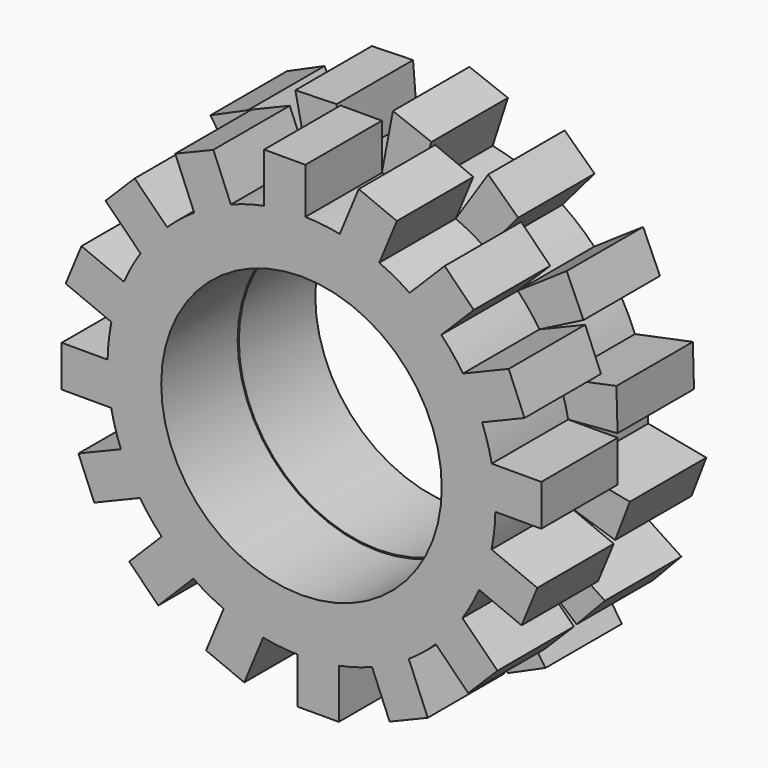
from build123d import *

# Parameters (mm, degrees)
F0_R     = 4.25
F1_DEPTH = 2.895
F2_DEPTH = 2.895
F3_DEPTH = 2.895
F4_R     = 4.213856
F5_DEPTH = 2.895


with BuildPart() as f1:
    # F0 (on Front) → F1 (new body)
    with BuildSketch(Plane.XZ):
        with BuildLine():
            ThreePointArc((5.873803, -0.118588), (5.874701, -0.059297), (5.875, 0))
            ThreePointArc((5.875, 0), (5.847442, 0.568372), (5.765027, 1.131412))
            ThreePointArc((5.765027, 1.131412), (5.641055, 1.641378), (5.472068, 2.138246))
            ThreePointArc((5.472068, 2.138246), (5.212447, 2.710355), (4.893218, 3.251468))
            ThreePointArc((4.893218, 3.251468), (4.583527, 3.675174), (4.237261, 4.069551))
            ThreePointArc((4.237261, 4.069551), (3.778465, 4.498758), (3.276461, 4.876518))
            ThreePointArc((3.276461, 4.876518), (2.828199, 5.149458), (2.357368, 5.381305))
            ThreePointArc((2.357368, 5.381305), (1.769247, 5.602267), (1.160892, 5.759163))
            ThreePointArc((1.160892, 5.759163), (0.642303, 5.839784), (0.118588, 5.873803))
            ThreePointArc((0.118588, 5.873803), (-0.509324, 5.852881), (-1.131412, 5.765027))
            ThreePointArc((-1.131412, 5.765027), (-1.641378, 5.641055), (-2.138246, 5.472068))
            ThreePointArc((-2.138246, 5.472068), (-2.710355, 5.212447), (-3.251468, 4.893218))
            ThreePointArc((-3.251468, 4.893218), (-3.675174, 4.583527), (-4.069551, 4.237261))
            ThreePointArc((-4.069551, 4.237261), (-4.498758, 3.778465), (-4.876518, 3.276461))
            ThreePointArc((-4.876518, 3.276461), (-5.149458, 2.828199), (-5.381305, 2.357368))
            ThreePointArc((-5.381305, 2.357368), (-5.602267, 1.769247), (-5.759163, 1.160892))
            ThreePointArc((-5.759163, 1.160892), (-5.839784, 0.642303), (-5.873803, 0.118588))
            ThreePointArc((-5.873803, 0.118588), (-5.852881, -0.509324), (-5.765027, -1.131412))
            ThreePointArc((-5.765027, -1.131412), (-5.641055, -1.641378), (-5.472068, -2.138246))
            ThreePointArc((-5.472068, -2.138246), (-5.212447, -2.710355), (-4.893218, -3.251468))
            ThreePointArc((-4.893218, -3.251468), (-4.583527, -3.675174), (-4.237261, -4.069551))
            ThreePointArc((-4.237261, -4.069551), (-3.778465, -4.498758), (-3.276461, -4.876518))
            ThreePointArc((-3.276461, -4.876518), (-2.828199, -5.149458), (-2.357368, -5.381305))
            ThreePointArc((-2.357368, -5.381305), (-1.769247, -5.602267), (-1.160892, -5.759163))
            ThreePointArc((-1.160892, -5.759163), (-0.642303, -5.839784), (-0.118588, -5.873803))
            ThreePointArc((-0.118588, -5.873803), (0.509324, -5.852881), (1.131412, -5.765027))
            ThreePointArc((1.131412, -5.765027), (1.641378, -5.641055), (2.138246, -5.472068))
            ThreePointArc((2.138246, -5.472068), (2.710355, -5.212447), (3.251468, -4.893218))
            ThreePointArc((3.251468, -4.893218), (3.675174, -4.583527), (4.069551, -4.237261))
            ThreePointArc((4.069551, -4.237261), (4.498758, -3.778465), (4.876518, -3.276461))
            ThreePointArc((4.876518, -3.276461), (5.149458, -2.828199), (5.381305, -2.357368))
            ThreePointArc((5.381305, -2.357368), (5.602267, -1.769247), (5.759163, -1.160892))
            ThreePointArc((5.759163, -1.160892), (5.839784, -0.642303), (5.873803, -0.118588))
        make_face()
        Circle(F0_R, mode=Mode.SUBTRACT)
        with BuildLine():
            ThreePointArc((5.765027, 1.131412), (5.847442, 0.568372), (5.875, 0))
            ThreePointArc((5.875, 0), (5.874701, -0.059297), (5.873803, -0.118588))
            Line((5.873803, -0.118588), (7.265027, -0.118588))
            Line((7.265027, -0.118588), (7.265027, 1.131412))
            Line((7.265027, 1.131412), (5.765027, 1.131412))
        make_face()
        with BuildLine():
            ThreePointArc((4.893218, 3.251468), (5.212447, 2.710355), (5.472068, 2.138246))
            Line((5.472068, 2.138246), (6.757391, 2.670644))
            Line((6.757391, 2.670644), (6.279037, 3.825493))
            Line((6.279037, 3.825493), (4.893218, 3.251468))
        make_face()
        with BuildLine():
            Line((7.144982, -1.734917), (5.759163, -1.160892))
            ThreePointArc((5.759163, -1.160892), (5.602267, -1.769247), (5.381305, -2.357368))
            Line((5.381305, -2.357368), (6.666628, -2.889767))
            Line((6.666628, -2.889767), (7.144982, -1.734917))
        make_face()
        with BuildLine():
            ThreePointArc((3.276461, 4.876518), (3.778465, 4.498758), (4.237261, 4.069551))
            Line((4.237261, 4.069551), (5.221004, 5.053295))
            Line((5.221004, 5.053295), (4.337121, 5.937179))
            Line((4.337121, 5.937179), (3.276461, 4.876518))
        make_face()
        with BuildLine():
            Line((5.937179, -4.337121), (4.876518, -3.276461))
            ThreePointArc((4.876518, -3.276461), (4.498758, -3.778465), (4.069551, -4.237261))
            Line((4.069551, -4.237261), (5.053295, -5.221004))
            Line((5.053295, -5.221004), (5.937179, -4.337121))
        make_face()
        with BuildLine():
            ThreePointArc((1.160892, 5.759163), (1.769247, 5.602267), (2.357368, 5.381305))
            Line((2.357368, 5.381305), (2.889767, 6.666628))
            Line((2.889767, 6.666628), (1.734917, 7.144982))
            Line((1.734917, 7.144982), (1.160892, 5.759163))
        make_face()
        with BuildLine():
            Line((3.825493, -6.279037), (3.251468, -4.893218))
            ThreePointArc((3.251468, -4.893218), (2.710355, -5.212447), (2.138246, -5.472068))
            Line((2.138246, -5.472068), (2.670644, -6.757391))
            Line((2.670644, -6.757391), (3.825493, -6.279037))
        make_face()
        with BuildLine():
            ThreePointArc((-1.131412, 5.765027), (-0.509324, 5.852881), (0.118588, 5.873803))
            Line((0.118588, 5.873803), (0.118588, 7.265027))
            Line((0.118588, 7.265027), (-1.131412, 7.265027))
            Line((-1.131412, 7.265027), (-1.131412, 5.765027))
        make_face()
        with BuildLine():
            Line((1.131412, -7.265027), (1.131412, -5.765027))
            ThreePointArc((1.131412, -5.765027), (0.509324, -5.852881), (-0.118588, -5.873803))
            Line((-0.118588, -5.873803), (-0.118588, -7.265027))
            Line((-0.118588, -7.265027), (1.131412, -7.265027))
        make_face()
        with BuildLine():
            ThreePointArc((-3.251468, 4.893218), (-2.710355, 5.212447), (-2.138246, 5.472068))
            Line((-2.138246, 5.472068), (-2.670644, 6.757391))
            Line((-2.670644, 6.757391), (-3.825493, 6.279037))
            Line((-3.825493, 6.279037), (-3.251468, 4.893218))
        make_face()
        with BuildLine():
            Line((-1.734917, -7.144982), (-1.160892, -5.759163))
            ThreePointArc((-1.160892, -5.759163), (-1.769247, -5.602267), (-2.357368, -5.381305))
            Line((-2.357368, -5.381305), (-2.889767, -6.666628))
            Line((-2.889767, -6.666628), (-1.734917, -7.144982))
        make_face()
        with BuildLine():
            ThreePointArc((-4.876518, 3.276461), (-4.498758, 3.778465), (-4.069551, 4.237261))
            Line((-4.069551, 4.237261), (-5.053295, 5.221004))
            Line((-5.053295, 5.221004), (-5.937179, 4.337121))
            Line((-5.937179, 4.337121), (-4.876518, 3.276461))
        make_face()
        with BuildLine():
            Line((-4.337121, -5.937179), (-3.276461, -4.876518))
            ThreePointArc((-3.276461, -4.876518), (-3.778465, -4.498758), (-4.237261, -4.069551))
            Line((-4.237261, -4.069551), (-5.221004, -5.053295))
            Line((-5.221004, -5.053295), (-4.337121, -5.937179))
        make_face()
        with BuildLine():
            ThreePointArc((-5.759163, 1.160892), (-5.602267, 1.769247), (-5.381305, 2.357368))
            Line((-5.381305, 2.357368), (-6.666628, 2.889767))
            Line((-6.666628, 2.889767), (-7.144982, 1.734917))
            Line((-7.144982, 1.734917), (-5.759163, 1.160892))
        make_face()
        with BuildLine():
            Line((-6.279037, -3.825493), (-4.893218, -3.251468))
            ThreePointArc((-4.893218, -3.251468), (-5.212447, -2.710355), (-5.472068, -2.138246))
            Line((-5.472068, -2.138246), (-6.757391, -2.670644))
            Line((-6.757391, -2.670644), (-6.279037, -3.825493))
        make_face()
        with BuildLine():
            ThreePointArc((-5.765027, -1.131412), (-5.852881, -0.509324), (-5.873803, 0.118588))
            Line((-5.873803, 0.118588), (-7.265027, 0.118588))
            Line((-7.265027, 0.118588), (-7.265027, -1.131412))
            Line((-7.265027, -1.131412), (-5.765027, -1.131412))
        make_face()
    extrude(amount=F1_DEPTH)

    # F0 (on Front) → F2 (join)
    with BuildSketch(Plane.XZ):
        with BuildLine():
            ThreePointArc((5.873803, -0.118588), (5.874701, -0.059297), (5.875, 0))
            ThreePointArc((5.875, 0), (5.847442, 0.568372), (5.765027, 1.131412))
            ThreePointArc((5.765027, 1.131412), (5.641055, 1.641378), (5.472068, 2.138246))
            ThreePointArc((5.472068, 2.138246), (5.212447, 2.710355), (4.893218, 3.251468))
            ThreePointArc((4.893218, 3.251468), (4.583527, 3.675174), (4.237261, 4.069551))
            ThreePointArc((4.237261, 4.069551), (3.778465, 4.498758), (3.276461, 4.876518))
            ThreePointArc((3.276461, 4.876518), (2.828199, 5.149458), (2.357368, 5.381305))
            ThreePointArc((2.357368, 5.381305), (1.769247, 5.602267), (1.160892, 5.759163))
            ThreePointArc((1.160892, 5.759163), (0.642303, 5.839784), (0.118588, 5.873803))
            ThreePointArc((0.118588, 5.873803), (-0.509324, 5.852881), (-1.131412, 5.765027))
            ThreePointArc((-1.131412, 5.765027), (-1.641378, 5.641055), (-2.138246, 5.472068))
            ThreePointArc((-2.138246, 5.472068), (-2.710355, 5.212447), (-3.251468, 4.893218))
            ThreePointArc((-3.251468, 4.893218), (-3.675174, 4.583527), (-4.069551, 4.237261))
            ThreePointArc((-4.069551, 4.237261), (-4.498758, 3.778465), (-4.876518, 3.276461))
            ThreePointArc((-4.876518, 3.276461), (-5.149458, 2.828199), (-5.381305, 2.357368))
            ThreePointArc((-5.381305, 2.357368), (-5.602267, 1.769247), (-5.759163, 1.160892))
            ThreePointArc((-5.759163, 1.160892), (-5.839784, 0.642303), (-5.873803, 0.118588))
            ThreePointArc((-5.873803, 0.118588), (-5.852881, -0.509324), (-5.765027, -1.131412))
            ThreePointArc((-5.765027, -1.131412), (-5.641055, -1.641378), (-5.472068, -2.138246))
            ThreePointArc((-5.472068, -2.138246), (-5.212447, -2.710355), (-4.893218, -3.251468))
            ThreePointArc((-4.893218, -3.251468), (-4.583527, -3.675174), (-4.237261, -4.069551))
            ThreePointArc((-4.237261, -4.069551), (-3.778465, -4.498758), (-3.276461, -4.876518))
            ThreePointArc((-3.276461, -4.876518), (-2.828199, -5.149458), (-2.357368, -5.381305))
            ThreePointArc((-2.357368, -5.381305), (-1.769247, -5.602267), (-1.160892, -5.759163))
            ThreePointArc((-1.160892, -5.759163), (-0.642303, -5.839784), (-0.118588, -5.873803))
            ThreePointArc((-0.118588, -5.873803), (0.509324, -5.852881), (1.131412, -5.765027))
            ThreePointArc((1.131412, -5.765027), (1.641378, -5.641055), (2.138246, -5.472068))
            ThreePointArc((2.138246, -5.472068), (2.710355, -5.212447), (3.251468, -4.893218))
            ThreePointArc((3.251468, -4.893218), (3.675174, -4.583527), (4.069551, -4.237261))
            ThreePointArc((4.069551, -4.237261), (4.498758, -3.778465), (4.876518, -3.276461))
            ThreePointArc((4.876518, -3.276461), (5.149458, -2.828199), (5.381305, -2.357368))
            ThreePointArc((5.381305, -2.357368), (5.602267, -1.769247), (5.759163, -1.160892))
            ThreePointArc((5.759163, -1.160892), (5.839784, -0.642303), (5.873803, -0.118588))
        make_face()
        Circle(F0_R, mode=Mode.SUBTRACT)
        with BuildLine():
            ThreePointArc((5.765027, 1.131412), (5.847442, 0.568372), (5.875, 0))
            ThreePointArc((5.875, 0), (5.874701, -0.059297), (5.873803, -0.118588))
            Line((5.873803, -0.118588), (7.265027, -0.118588))
            Line((7.265027, -0.118588), (7.265027, 1.131412))
            Line((7.265027, 1.131412), (5.765027, 1.131412))
        make_face()
        with BuildLine():
            ThreePointArc((4.893218, 3.251468), (5.212447, 2.710355), (5.472068, 2.138246))
            Line((5.472068, 2.138246), (6.757391, 2.670644))
            Line((6.757391, 2.670644), (6.279037, 3.825493))
            Line((6.279037, 3.825493), (4.893218, 3.251468))
        make_face()
        with BuildLine():
            Line((7.144982, -1.734917), (5.759163, -1.160892))
            ThreePointArc((5.759163, -1.160892), (5.602267, -1.769247), (5.381305, -2.357368))
            Line((5.381305, -2.357368), (6.666628, -2.889767))
            Line((6.666628, -2.889767), (7.144982, -1.734917))
        make_face()
        with BuildLine():
            ThreePointArc((3.276461, 4.876518), (3.778465, 4.498758), (4.237261, 4.069551))
            Line((4.237261, 4.069551), (5.221004, 5.053295))
            Line((5.221004, 5.053295), (4.337121, 5.937179))
            Line((4.337121, 5.937179), (3.276461, 4.876518))
        make_face()
        with BuildLine():
            Line((5.937179, -4.337121), (4.876518, -3.276461))
            ThreePointArc((4.876518, -3.276461), (4.498758, -3.778465), (4.069551, -4.237261))
            Line((4.069551, -4.237261), (5.053295, -5.221004))
            Line((5.053295, -5.221004), (5.937179, -4.337121))
        make_face()
        with BuildLine():
            ThreePointArc((1.160892, 5.759163), (1.769247, 5.602267), (2.357368, 5.381305))
            Line((2.357368, 5.381305), (2.889767, 6.666628))
            Line((2.889767, 6.666628), (1.734917, 7.144982))
            Line((1.734917, 7.144982), (1.160892, 5.759163))
        make_face()
        with BuildLine():
            Line((3.825493, -6.279037), (3.251468, -4.893218))
            ThreePointArc((3.251468, -4.893218), (2.710355, -5.212447), (2.138246, -5.472068))
            Line((2.138246, -5.472068), (2.670644, -6.757391))
            Line((2.670644, -6.757391), (3.825493, -6.279037))
        make_face()
        with BuildLine():
            ThreePointArc((-1.131412, 5.765027), (-0.509324, 5.852881), (0.118588, 5.873803))
            Line((0.118588, 5.873803), (0.118588, 7.265027))
            Line((0.118588, 7.265027), (-1.131412, 7.265027))
            Line((-1.131412, 7.265027), (-1.131412, 5.765027))
        make_face()
        with BuildLine():
            Line((1.131412, -7.265027), (1.131412, -5.765027))
            ThreePointArc((1.131412, -5.765027), (0.509324, -5.852881), (-0.118588, -5.873803))
            Line((-0.118588, -5.873803), (-0.118588, -7.265027))
            Line((-0.118588, -7.265027), (1.131412, -7.265027))
        make_face()
        with BuildLine():
            ThreePointArc((-3.251468, 4.893218), (-2.710355, 5.212447), (-2.138246, 5.472068))
            Line((-2.138246, 5.472068), (-2.670644, 6.757391))
            Line((-2.670644, 6.757391), (-3.825493, 6.279037))
            Line((-3.825493, 6.279037), (-3.251468, 4.893218))
        make_face()
        with BuildLine():
            Line((-1.734917, -7.144982), (-1.160892, -5.759163))
            ThreePointArc((-1.160892, -5.759163), (-1.769247, -5.602267), (-2.357368, -5.381305))
            Line((-2.357368, -5.381305), (-2.889767, -6.666628))
            Line((-2.889767, -6.666628), (-1.734917, -7.144982))
        make_face()
        with BuildLine():
            ThreePointArc((-4.876518, 3.276461), (-4.498758, 3.778465), (-4.069551, 4.237261))
            Line((-4.069551, 4.237261), (-5.053295, 5.221004))
            Line((-5.053295, 5.221004), (-5.937179, 4.337121))
            Line((-5.937179, 4.337121), (-4.876518, 3.276461))
        make_face()
        with BuildLine():
            Line((-4.337121, -5.937179), (-3.276461, -4.876518))
            ThreePointArc((-3.276461, -4.876518), (-3.778465, -4.498758), (-4.237261, -4.069551))
            Line((-4.237261, -4.069551), (-5.221004, -5.053295))
            Line((-5.221004, -5.053295), (-4.337121, -5.937179))
        make_face()
        with BuildLine():
            ThreePointArc((-5.759163, 1.160892), (-5.602267, 1.769247), (-5.381305, 2.357368))
            Line((-5.381305, 2.357368), (-6.666628, 2.889767))
            Line((-6.666628, 2.889767), (-7.144982, 1.734917))
            Line((-7.144982, 1.734917), (-5.759163, 1.160892))
        make_face()
        with BuildLine():
            Line((-6.279037, -3.825493), (-4.893218, -3.251468))
            ThreePointArc((-4.893218, -3.251468), (-5.212447, -2.710355), (-5.472068, -2.138246))
            Line((-5.472068, -2.138246), (-6.757391, -2.670644))
            Line((-6.757391, -2.670644), (-6.279037, -3.825493))
        make_face()
        with BuildLine():
            ThreePointArc((-5.765027, -1.131412), (-5.852881, -0.509324), (-5.873803, 0.118588))
            Line((-5.873803, 0.118588), (-7.265027, 0.118588))
            Line((-7.265027, 0.118588), (-7.265027, -1.131412))
            Line((-7.265027, -1.131412), (-5.765027, -1.131412))
        make_face()
    extrude(amount=F2_DEPTH)

    # F0 (on Front) → F3 (join)
    with BuildSketch(Plane.XZ):
        with BuildLine():
            ThreePointArc((5.873803, -0.118588), (5.874701, -0.059297), (5.875, 0))
            ThreePointArc((5.875, 0), (5.847442, 0.568372), (5.765027, 1.131412))
            ThreePointArc((5.765027, 1.131412), (5.641055, 1.641378), (5.472068, 2.138246))
            ThreePointArc((5.472068, 2.138246), (5.212447, 2.710355), (4.893218, 3.251468))
            ThreePointArc((4.893218, 3.251468), (4.583527, 3.675174), (4.237261, 4.069551))
            ThreePointArc((4.237261, 4.069551), (3.778465, 4.498758), (3.276461, 4.876518))
            ThreePointArc((3.276461, 4.876518), (2.828199, 5.149458), (2.357368, 5.381305))
            ThreePointArc((2.357368, 5.381305), (1.769247, 5.602267), (1.160892, 5.759163))
            ThreePointArc((1.160892, 5.759163), (0.642303, 5.839784), (0.118588, 5.873803))
            ThreePointArc((0.118588, 5.873803), (-0.509324, 5.852881), (-1.131412, 5.765027))
            ThreePointArc((-1.131412, 5.765027), (-1.641378, 5.641055), (-2.138246, 5.472068))
            ThreePointArc((-2.138246, 5.472068), (-2.710355, 5.212447), (-3.251468, 4.893218))
            ThreePointArc((-3.251468, 4.893218), (-3.675174, 4.583527), (-4.069551, 4.237261))
            ThreePointArc((-4.069551, 4.237261), (-4.498758, 3.778465), (-4.876518, 3.276461))
            ThreePointArc((-4.876518, 3.276461), (-5.149458, 2.828199), (-5.381305, 2.357368))
            ThreePointArc((-5.381305, 2.357368), (-5.602267, 1.769247), (-5.759163, 1.160892))
            ThreePointArc((-5.759163, 1.160892), (-5.839784, 0.642303), (-5.873803, 0.118588))
            ThreePointArc((-5.873803, 0.118588), (-5.852881, -0.509324), (-5.765027, -1.131412))
            ThreePointArc((-5.765027, -1.131412), (-5.641055, -1.641378), (-5.472068, -2.138246))
            ThreePointArc((-5.472068, -2.138246), (-5.212447, -2.710355), (-4.893218, -3.251468))
            ThreePointArc((-4.893218, -3.251468), (-4.583527, -3.675174), (-4.237261, -4.069551))
            ThreePointArc((-4.237261, -4.069551), (-3.778465, -4.498758), (-3.276461, -4.876518))
            ThreePointArc((-3.276461, -4.876518), (-2.828199, -5.149458), (-2.357368, -5.381305))
            ThreePointArc((-2.357368, -5.381305), (-1.769247, -5.602267), (-1.160892, -5.759163))
            ThreePointArc((-1.160892, -5.759163), (-0.642303, -5.839784), (-0.118588, -5.873803))
            ThreePointArc((-0.118588, -5.873803), (0.509324, -5.852881), (1.131412, -5.765027))
            ThreePointArc((1.131412, -5.765027), (1.641378, -5.641055), (2.138246, -5.472068))
            ThreePointArc((2.138246, -5.472068), (2.710355, -5.212447), (3.251468, -4.893218))
            ThreePointArc((3.251468, -4.893218), (3.675174, -4.583527), (4.069551, -4.237261))
            ThreePointArc((4.069551, -4.237261), (4.498758, -3.778465), (4.876518, -3.276461))
            ThreePointArc((4.876518, -3.276461), (5.149458, -2.828199), (5.381305, -2.357368))
            ThreePointArc((5.381305, -2.357368), (5.602267, -1.769247), (5.759163, -1.160892))
            ThreePointArc((5.759163, -1.160892), (5.839784, -0.642303), (5.873803, -0.118588))
        make_face()
        Circle(F0_R, mode=Mode.SUBTRACT)
        with BuildLine():
            ThreePointArc((5.765027, 1.131412), (5.847442, 0.568372), (5.875, 0))
            ThreePointArc((5.875, 0), (5.874701, -0.059297), (5.873803, -0.118588))
            Line((5.873803, -0.118588), (7.265027, -0.118588))
            Line((7.265027, -0.118588), (7.265027, 1.131412))
            Line((7.265027, 1.131412), (5.765027, 1.131412))
        make_face()
        with BuildLine():
            ThreePointArc((4.893218, 3.251468), (5.212447, 2.710355), (5.472068, 2.138246))
            Line((5.472068, 2.138246), (6.757391, 2.670644))
            Line((6.757391, 2.670644), (6.279037, 3.825493))
            Line((6.279037, 3.825493), (4.893218, 3.251468))
        make_face()
        with BuildLine():
            Line((7.144982, -1.734917), (5.759163, -1.160892))
            ThreePointArc((5.759163, -1.160892), (5.602267, -1.769247), (5.381305, -2.357368))
            Line((5.381305, -2.357368), (6.666628, -2.889767))
            Line((6.666628, -2.889767), (7.144982, -1.734917))
        make_face()
        with BuildLine():
            ThreePointArc((3.276461, 4.876518), (3.778465, 4.498758), (4.237261, 4.069551))
            Line((4.237261, 4.069551), (5.221004, 5.053295))
            Line((5.221004, 5.053295), (4.337121, 5.937179))
            Line((4.337121, 5.937179), (3.276461, 4.876518))
        make_face()
        with BuildLine():
            Line((5.937179, -4.337121), (4.876518, -3.276461))
            ThreePointArc((4.876518, -3.276461), (4.498758, -3.778465), (4.069551, -4.237261))
            Line((4.069551, -4.237261), (5.053295, -5.221004))
            Line((5.053295, -5.221004), (5.937179, -4.337121))
        make_face()
        with BuildLine():
            ThreePointArc((1.160892, 5.759163), (1.769247, 5.602267), (2.357368, 5.381305))
            Line((2.357368, 5.381305), (2.889767, 6.666628))
            Line((2.889767, 6.666628), (1.734917, 7.144982))
            Line((1.734917, 7.144982), (1.160892, 5.759163))
        make_face()
        with BuildLine():
            Line((3.825493, -6.279037), (3.251468, -4.893218))
            ThreePointArc((3.251468, -4.893218), (2.710355, -5.212447), (2.138246, -5.472068))
            Line((2.138246, -5.472068), (2.670644, -6.757391))
            Line((2.670644, -6.757391), (3.825493, -6.279037))
        make_face()
        with BuildLine():
            ThreePointArc((-1.131412, 5.765027), (-0.509324, 5.852881), (0.118588, 5.873803))
            Line((0.118588, 5.873803), (0.118588, 7.265027))
            Line((0.118588, 7.265027), (-1.131412, 7.265027))
            Line((-1.131412, 7.265027), (-1.131412, 5.765027))
        make_face()
        with BuildLine():
            Line((1.131412, -7.265027), (1.131412, -5.765027))
            ThreePointArc((1.131412, -5.765027), (0.509324, -5.852881), (-0.118588, -5.873803))
            Line((-0.118588, -5.873803), (-0.118588, -7.265027))
            Line((-0.118588, -7.265027), (1.131412, -7.265027))
        make_face()
        with BuildLine():
            ThreePointArc((-3.251468, 4.893218), (-2.710355, 5.212447), (-2.138246, 5.472068))
            Line((-2.138246, 5.472068), (-2.670644, 6.757391))
            Line((-2.670644, 6.757391), (-3.825493, 6.279037))
            Line((-3.825493, 6.279037), (-3.251468, 4.893218))
        make_face()
        with BuildLine():
            Line((-1.734917, -7.144982), (-1.160892, -5.759163))
            ThreePointArc((-1.160892, -5.759163), (-1.769247, -5.602267), (-2.357368, -5.381305))
            Line((-2.357368, -5.381305), (-2.889767, -6.666628))
            Line((-2.889767, -6.666628), (-1.734917, -7.144982))
        make_face()
        with BuildLine():
            ThreePointArc((-4.876518, 3.276461), (-4.498758, 3.778465), (-4.069551, 4.237261))
            Line((-4.069551, 4.237261), (-5.053295, 5.221004))
            Line((-5.053295, 5.221004), (-5.937179, 4.337121))
            Line((-5.937179, 4.337121), (-4.876518, 3.276461))
        make_face()
        with BuildLine():
            Line((-4.337121, -5.937179), (-3.276461, -4.876518))
            ThreePointArc((-3.276461, -4.876518), (-3.778465, -4.498758), (-4.237261, -4.069551))
            Line((-4.237261, -4.069551), (-5.221004, -5.053295))
            Line((-5.221004, -5.053295), (-4.337121, -5.937179))
        make_face()
        with BuildLine():
            ThreePointArc((-5.759163, 1.160892), (-5.602267, 1.769247), (-5.381305, 2.357368))
            Line((-5.381305, 2.357368), (-6.666628, 2.889767))
            Line((-6.666628, 2.889767), (-7.144982, 1.734917))
            Line((-7.144982, 1.734917), (-5.759163, 1.160892))
        make_face()
        with BuildLine():
            Line((-6.279037, -3.825493), (-4.893218, -3.251468))
            ThreePointArc((-4.893218, -3.251468), (-5.212447, -2.710355), (-5.472068, -2.138246))
            Line((-5.472068, -2.138246), (-6.757391, -2.670644))
            Line((-6.757391, -2.670644), (-6.279037, -3.825493))
        make_face()
        with BuildLine():
            ThreePointArc((-5.765027, -1.131412), (-5.852881, -0.509324), (-5.873803, 0.118588))
            Line((-5.873803, 0.118588), (-7.265027, 0.118588))
            Line((-7.265027, 0.118588), (-7.265027, -1.131412))
            Line((-7.265027, -1.131412), (-5.765027, -1.131412))
        make_face()
    extrude(amount=F3_DEPTH)

    # F4 (on face) → F5 (join)
    with BuildSketch(Plane(origin=(0, 0, 0), x_dir=(-1, 0, 0), z_dir=(0, 1, 0))):
        with BuildLine():
            ThreePointArc((5.765027, -1.131412), (5.847442, -0.568372), (5.875, 0))
            ThreePointArc((5.875, 0), (5.874701, 0.059297), (5.873803, 0.118588))
            ThreePointArc((5.873803, 0.118588), (5.839784, 0.642303), (5.759163, 1.160892))
            ThreePointArc((5.759163, 1.160892), (5.602267, 1.769247), (5.381305, 2.357368))
            ThreePointArc((5.381305, 2.357368), (5.149458, 2.828199), (4.876518, 3.276461))
            ThreePointArc((4.876518, 3.276461), (4.498758, 3.778465), (4.069551, 4.237261))
            ThreePointArc((4.069551, 4.237261), (3.675174, 4.583527), (3.251468, 4.893218))
            ThreePointArc((3.251468, 4.893218), (2.710355, 5.212447), (2.138246, 5.472068))
            ThreePointArc((2.138246, 5.472068), (1.641378, 5.641055), (1.131412, 5.765027))
            ThreePointArc((1.131412, 5.765027), (0.509324, 5.852881), (-0.118588, 5.873803))
            ThreePointArc((-0.118588, 5.873803), (-0.642303, 5.839784), (-1.160892, 5.759163))
            ThreePointArc((-1.160892, 5.759163), (-1.769247, 5.602267), (-2.357368, 5.381305))
            ThreePointArc((-2.357368, 5.381305), (-2.828199, 5.149458), (-3.276461, 4.876518))
            ThreePointArc((-3.276461, 4.876518), (-3.778465, 4.498758), (-4.237261, 4.069551))
            ThreePointArc((-4.237261, 4.069551), (-4.583527, 3.675174), (-4.893218, 3.251468))
            ThreePointArc((-4.893218, 3.251468), (-5.212447, 2.710355), (-5.472068, 2.138246))
            ThreePointArc((-5.472068, 2.138246), (-5.641055, 1.641378), (-5.765027, 1.131412))
            ThreePointArc((-5.765027, 1.131412), (-5.852881, 0.509324), (-5.873803, -0.118588))
            ThreePointArc((-5.873803, -0.118588), (-5.839784, -0.642303), (-5.759163, -1.160892))
            ThreePointArc((-5.759163, -1.160892), (-5.602267, -1.769247), (-5.381305, -2.357368))
            ThreePointArc((-5.381305, -2.357368), (-5.149458, -2.828199), (-4.876518, -3.276461))
            ThreePointArc((-4.876518, -3.276461), (-4.498758, -3.778465), (-4.069551, -4.237261))
            ThreePointArc((-4.069551, -4.237261), (-3.675174, -4.583527), (-3.251468, -4.893218))
            ThreePointArc((-3.251468, -4.893218), (-2.710355, -5.212447), (-2.138246, -5.472068))
            ThreePointArc((-2.138246, -5.472068), (-1.641378, -5.641055), (-1.131412, -5.765027))
            ThreePointArc((-1.131412, -5.765027), (-0.509324, -5.852881), (0.118588, -5.873803))
            ThreePointArc((0.118588, -5.873803), (0.642303, -5.839784), (1.160892, -5.759163))
            ThreePointArc((1.160892, -5.759163), (1.769247, -5.602267), (2.357368, -5.381305))
            ThreePointArc((2.357368, -5.381305), (2.828199, -5.149458), (3.276461, -4.876518))
            ThreePointArc((3.276461, -4.876518), (3.778465, -4.498758), (4.237261, -4.069551))
            ThreePointArc((4.237261, -4.069551), (4.583527, -3.675174), (4.893218, -3.251468))
            ThreePointArc((4.893218, -3.251468), (5.212447, -2.710355), (5.472068, -2.138246))
            ThreePointArc((5.472068, -2.138246), (5.641055, -1.641378), (5.765027, -1.131412))
        make_face()
        Circle(F4_R, mode=Mode.SUBTRACT)
        with BuildLine():
            ThreePointArc((5.759163, 1.160892), (5.839784, 0.642303), (5.873803, 0.118588))
            Line((5.873803, 0.118588), (7.633415, 0.45494))
            Line((7.633415, 0.45494), (7.186436, 1.622292))
            Line((7.186436, 1.622292), (5.759163, 1.160892))
        make_face()
        with BuildLine():
            Line((7.260226, -1.251327), (5.765027, -1.131412))
            ThreePointArc((5.765027, -1.131412), (5.641055, -1.641378), (5.472068, -2.138246))
            Line((5.472068, -2.138246), (7.226454, -2.500871))
            Line((7.226454, -2.500871), (7.260226, -1.251327))
        make_face()
        with BuildLine():
            ThreePointArc((4.876518, 3.276461), (5.149458, 2.828199), (5.381305, 2.357368))
            Line((5.381305, 2.357368), (6.878258, 3.341492))
            Line((6.878258, 3.341492), (6.018577, 4.248933))
            Line((6.018577, 4.248933), (4.876518, 3.276461))
        make_face()
        with BuildLine():
            Line((6.228712, -3.934444), (4.893218, -3.251468))
            ThreePointArc((4.893218, -3.251468), (4.583527, -3.675174), (4.237261, -4.069551))
            Line((4.237261, -4.069551), (5.719331, -5.075948))
            Line((5.719331, -5.075948), (6.228712, -3.934444))
        make_face()
        with BuildLine():
            ThreePointArc((3.251468, 4.893218), (3.675174, 4.583527), (4.069551, 4.237261))
            Line((4.069551, 4.237261), (5.075948, 5.719331))
            Line((5.075948, 5.719331), (3.934444, 6.228712))
            Line((3.934444, 6.228712), (3.251468, 4.893218))
        make_face()
        with BuildLine():
            Line((4.248933, -6.018577), (3.276461, -4.876518))
            ThreePointArc((3.276461, -4.876518), (2.828199, -5.149458), (2.357368, -5.381305))
            Line((2.357368, -5.381305), (3.341492, -6.878258))
            Line((3.341492, -6.878258), (4.248933, -6.018577))
        make_face()
        with BuildLine():
            ThreePointArc((1.131412, 5.765027), (1.641378, 5.641055), (2.138246, 5.472068))
            Line((2.138246, 5.472068), (2.500871, 7.226454))
            Line((2.500871, 7.226454), (1.251327, 7.260226))
            Line((1.251327, 7.260226), (1.131412, 5.765027))
        make_face()
        with BuildLine():
            Line((1.622292, -7.186436), (1.160892, -5.759163))
            ThreePointArc((1.160892, -5.759163), (0.642303, -5.839784), (0.118588, -5.873803))
            Line((0.118588, -5.873803), (0.45494, -7.633415))
            Line((0.45494, -7.633415), (1.622292, -7.186436))
        make_face()
        with BuildLine():
            ThreePointArc((-1.160892, 5.759163), (-0.642303, 5.839784), (-0.118588, 5.873803))
            Line((-0.118588, 5.873803), (-0.45494, 7.633415))
            Line((-0.45494, 7.633415), (-1.622292, 7.186436))
            Line((-1.622292, 7.186436), (-1.160892, 5.759163))
        make_face()
        with BuildLine():
            Line((-1.251327, -7.260226), (-1.131412, -5.765027))
            ThreePointArc((-1.131412, -5.765027), (-1.641378, -5.641055), (-2.138246, -5.472068))
            Line((-2.138246, -5.472068), (-2.500871, -7.226454))
            Line((-2.500871, -7.226454), (-1.251327, -7.260226))
        make_face()
        with BuildLine():
            ThreePointArc((-3.276461, 4.876518), (-2.828199, 5.149458), (-2.357368, 5.381305))
            Line((-2.357368, 5.381305), (-3.341492, 6.878258))
            Line((-3.341492, 6.878258), (-4.248933, 6.018577))
            Line((-4.248933, 6.018577), (-3.276461, 4.876518))
        make_face()
        with BuildLine():
            Line((-3.934444, -6.228712), (-3.251468, -4.893218))
            ThreePointArc((-3.251468, -4.893218), (-3.675174, -4.583527), (-4.069551, -4.237261))
            Line((-4.069551, -4.237261), (-5.075948, -5.719331))
            Line((-5.075948, -5.719331), (-3.934444, -6.228712))
        make_face()
        with BuildLine():
            ThreePointArc((-4.893218, 3.251468), (-4.583527, 3.675174), (-4.237261, 4.069551))
            Line((-4.237261, 4.069551), (-5.719331, 5.075948))
            Line((-5.719331, 5.075948), (-6.228712, 3.934444))
            Line((-6.228712, 3.934444), (-4.893218, 3.251468))
        make_face()
        with BuildLine():
            Line((-6.018577, -4.248933), (-4.876518, -3.276461))
            ThreePointArc((-4.876518, -3.276461), (-5.149458, -2.828199), (-5.381305, -2.357368))
            Line((-5.381305, -2.357368), (-6.878258, -3.341492))
            Line((-6.878258, -3.341492), (-6.018577, -4.248933))
        make_face()
        with BuildLine():
            ThreePointArc((-5.765027, 1.131412), (-5.641055, 1.641378), (-5.472068, 2.138246))
            Line((-5.472068, 2.138246), (-7.226454, 2.500871))
            Line((-7.226454, 2.500871), (-7.260226, 1.251327))
            Line((-7.260226, 1.251327), (-5.765027, 1.131412))
        make_face()
        with BuildLine():
            Line((-7.186436, -1.622292), (-5.759163, -1.160892))
            ThreePointArc((-5.759163, -1.160892), (-5.839784, -0.642303), (-5.873803, -0.118588))
            Line((-5.873803, -0.118588), (-7.633415, -0.45494))
            Line((-7.633415, -0.45494), (-7.186436, -1.622292))
        make_face()
    extrude(amount=F5_DEPTH)


solid = f1.part
